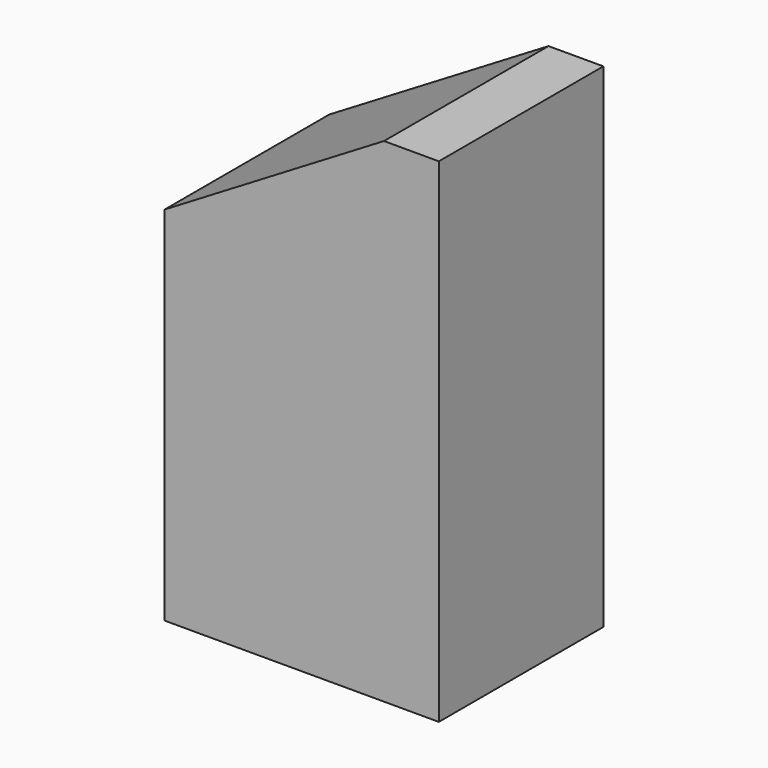
from build123d import *

# Parameters (mm, degrees)
SKETCH019_W     = 16
SKETCH019_H     = 16
PAD011_DEPTH    = 28.8
POCKET008_DEPTH = 16
PAD138_DEPTH    = 16
SKETCH191_W     = 16
SKETCH191_H     = 2
POCKET073_DEPTH = 30


with BuildPart() as part:
    # Sketch019 (on Face64 of Binder007) → Pad011 (new body)
    with BuildSketch(Plane.XY.offset(-28.8)):
        with Locations((-8, 96)):
            Rectangle(SKETCH019_W, SKETCH019_H)
    extrude(amount=PAD011_DEPTH)

    # Sketch020 (on Face3 of Pad011) → Pocket008 (cut)
    with BuildSketch(Plane.XZ.offset(-88)):
        Polygon((-16, -9.6), (0, 0), (-16, 0), align=None)
    extrude(amount=-POCKET008_DEPTH, mode=Mode.SUBTRACT)

    # Sketch140 (on Face6 of Pocket008) → Pad138 (join)
    with BuildSketch(Plane.XZ.offset(-88)):
        Polygon((0, 0), (-3.2, 0), (-16, -7.68), (-16, -10.88), (-3.2, -3.2), (0, -3.2), align=None)
    extrude(amount=-PAD138_DEPTH)

    # Sketch191 (on Face1 of Pad138) → Pocket073 (cut)
    with BuildSketch(Plane(origin=(0, 0, -28.8), x_dir=(1, 0, 0), z_dir=(0, 0, -1))):
        with Locations((-8, -89)):
            Rectangle(SKETCH191_W, SKETCH191_H)
        with Locations((-8, -103)):
            Rectangle(SKETCH191_W, SKETCH191_H)
    extrude(amount=-POCKET073_DEPTH, mode=Mode.SUBTRACT)


solid = part.part
